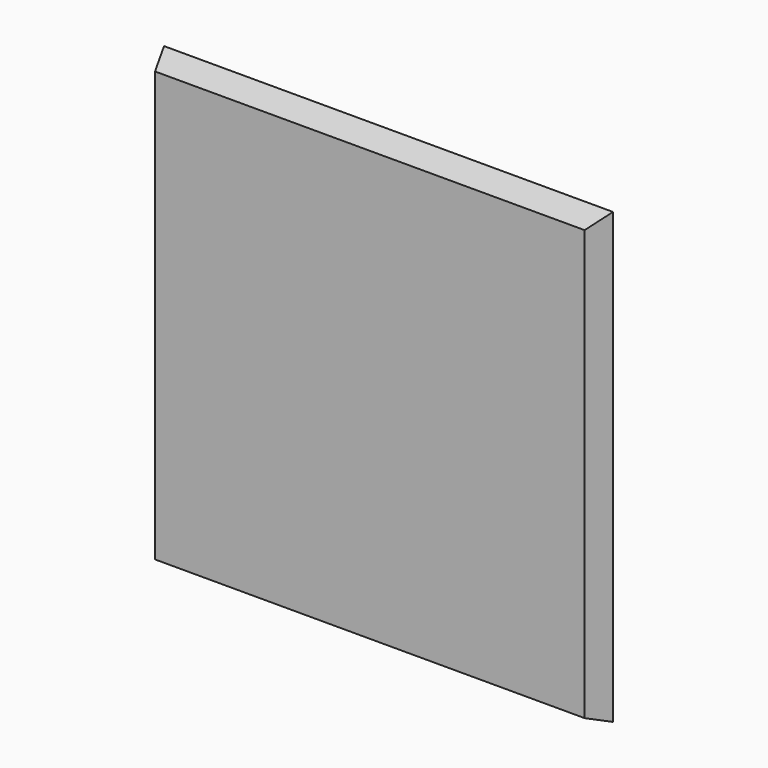
from build123d import *

# Parameters (mm, degrees)
F0_W     = 25.4
F0_H     = 25.4
F1_DEPTH = 25.4
F1_TAPER = -45
F2_SIZE  = 5.08


with BuildPart() as f1:
    # F0 (on Front) → F1 (new body)
    with BuildSketch(Plane.XZ):
        with Locations((-12.7, 12.7)):
            Rectangle(F0_W, F0_H)
    extrude(amount=F1_DEPTH, taper=F1_TAPER)

    # F2
    f2_edges = [f1.edges().sort_by_distance(p)[0] for p in [
        (-12.7, -25.4, -25.4),
        (25.4, -25.4, 12.7),
        (-12.7, -25.4, 50.8),
        (-50.8, -25.4, 12.7),
    ]]
    chamfer(f2_edges, length=F2_SIZE)


solid = f1.part
